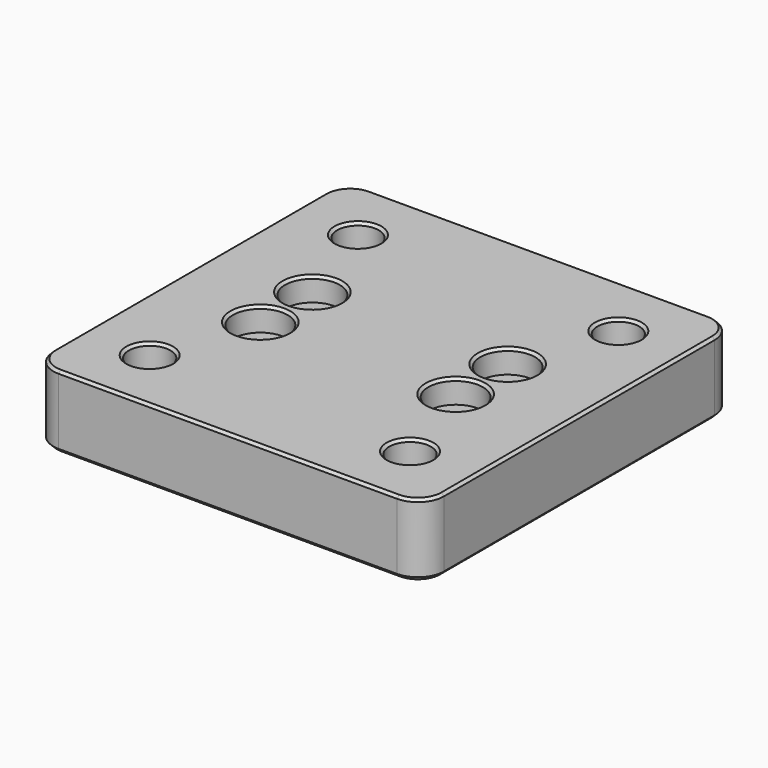
from build123d import *

# Parameters (mm, degrees)
SKETCH_W        = 60
SKETCH_H        = 60
PAD_DEPTH       = 11.15
SKETCH001_R     = 2.1
SKETCH001_R_2   = 3.2
POCKET_DEPTH    = 12
SKETCH002_R     = 4.2
POCKET001_DEPTH = 3.6
FILLET_R        = 4
CHAMFER_SIZE    = 0.4
CHAMFER001_SIZE = 0.6


with BuildPart() as part:
    # Sketch → Pad (new body)
    with BuildSketch(Plane.XY):
        with Locations((30, 30)):
            Rectangle(SKETCH_W, SKETCH_H)
    extrude(amount=PAD_DEPTH)

    # Sketch001 (on Face6 of Pad) → Pocket (cut)
    with BuildSketch(Plane.XY.offset(11.15)):
        with Locations((15, 35)):
            Circle(SKETCH001_R)
        with Locations((45, 35)):
            Circle(SKETCH001_R)
        with Locations((15, 25)):
            Circle(SKETCH001_R)
        with Locations((45, 25)):
            Circle(SKETCH001_R)
        with Locations((10, 50)):
            Circle(SKETCH001_R_2)
        with Locations((50, 50)):
            Circle(SKETCH001_R_2)
        with Locations((10, 10)):
            Circle(SKETCH001_R_2)
        with Locations((50, 10)):
            Circle(SKETCH001_R_2)
    extrude(amount=-POCKET_DEPTH, mode=Mode.SUBTRACT)

    # Sketch002 (on Face5 of Pocket) → Pocket001 (cut)
    with BuildSketch(Plane.XY.offset(11.15)):
        with Locations((15, 35)):
            Circle(SKETCH002_R)
        with Locations((45, 35)):
            Circle(SKETCH002_R)
        with Locations((45, 25)):
            Circle(SKETCH002_R)
        with Locations((15, 25)):
            Circle(SKETCH002_R)
    extrude(amount=-POCKET001_DEPTH, mode=Mode.SUBTRACT)

    # Fillet
    fillet_edges = [part.edges().sort_by_distance(p)[0] for p in [
        (0, 0, 5.575),
        (0, 60, 5.575),
        (60, 60, 5.575),
        (60, 0, 5.575),
    ]]
    fillet(fillet_edges, radius=FILLET_R)

    # Chamfer
    chamfer_edges = [part.edges().sort_by_distance(p)[0] for p in [
        (30, 60, 11.15),
        (1.171573, 58.828427, 11.15),
        (58.828427, 58.828427, 11.15),
        (0, 30, 11.15),
        (60, 30, 11.15),
        (1.171573, 1.171573, 11.15),
        (58.828427, 1.171573, 11.15),
        (30, 0, 11.15),
        (40.8, 35, 11.15),
        (46.8, 50, 11.15),
        (6.8, 50, 11.15),
        (10.8, 35, 11.15),
        (10.8, 25, 11.15),
        (40.8, 25, 11.15),
        (46.8, 10, 11.15),
        (6.8, 10, 11.15),
    ]]
    chamfer(chamfer_edges, length=CHAMFER_SIZE)

    # Chamfer001
    chamfer001_edges = [part.edges().sort_by_distance(p)[0] for p in [
        (30, 60, 0),
        (1.171573, 58.828427, 0),
        (58.828427, 58.828427, 0),
        (0, 30, 0),
        (60, 30, 0),
        (1.171573, 1.171573, 0),
        (58.828427, 1.171573, 0),
        (30, 0, 0),
        (42.9, 25, 0),
        (42.9, 35, 0),
        (46.8, 50, 0),
        (6.8, 50, 0),
        (12.9, 25, 0),
        (12.9, 35, 0),
        (46.8, 10, 0),
        (6.8, 10, 0),
    ]]
    chamfer(chamfer001_edges, length=CHAMFER001_SIZE)


solid = part.part
